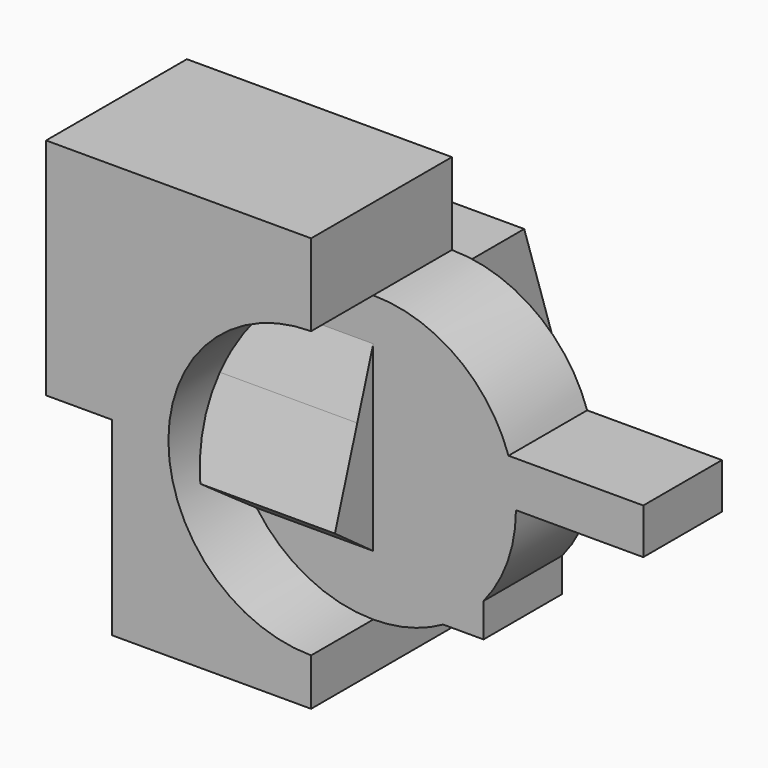
from build123d import *

# Parameters (mm, degrees)
F1_DEPTH = 45.466
F2_DEPTH = 25.4
F4_DEPTH = 46.736


with BuildPart() as f1:
    # F0 (on Front) → F1 (new body)
    with BuildSketch(Plane.XZ):
        with BuildLine():
            ThreePointArc((-36.8620457054, 0), (-26.0654024867, 26.0654024867), (0, 36.8620457054))
            Line((0, 36.8620457054), (0, 57.9813979566))
            Line((0, 57.9813979566), (-68.4616416693, 57.9813979566))
            Line((-68.4616416693, 57.9813979566), (-68.4616416693, 0))
            Line((-68.4616416693, 0), (-51.4429248869, 0))
            Line((-51.4429248869, 0), (-36.8620457054, 0))
        make_face()
        with BuildLine():
            ThreePointArc((0, -36.8620457054), (-26.0654024867, -26.0654024867), (-36.8620457054, 0))
            Line((-36.8620457054, 0), (-51.4429248869, 0))
            Line((-51.4429248869, 0), (-51.4429248869, -49.0166470408))
            Line((-51.4429248869, -49.0166470408), (0, -49.0166470408))
            Line((0, -49.0166470408), (0, -36.8620457054))
        make_face()
    extrude(amount=F1_DEPTH)

    # F0 (on Front) → F2 (join)
    with BuildSketch(Plane.XZ):
        with BuildLine():
            Line((28.4934528172, 0), (36.8620457054, 0))
            ThreePointArc((36.8620457054, 0), (36.3777391302, 5.9557123304), (34.9375453863, 11.7549281567))
            Line((34.9375453863, 11.7549281567), (0, 11.7549281567))
            Line((0, 11.7549281567), (0, 0))
            Line((0, 0), (28.4934528172, 0))
        make_face()
        with BuildLine():
            ThreePointArc((28.4934528172, -23.3866107023), (34.7068968192, -12.4194092761), (36.8620457054, 0))
            Line((36.8620457054, 0), (28.4934528172, 0))
            Line((28.4934528172, 0), (28.4934528172, -23.3866107023))
        make_face()
        with BuildLine():
            ThreePointArc((34.9375453863, 11.7549281567), (36.3777391302, 5.9557123304), (36.8620457054, 0))
            Line((36.8620457054, 0), (69.7509273887, 0))
            Line((69.7509273887, 0), (69.7509273887, 11.7549281567))
            Line((69.7509273887, 11.7549281567), (34.9375453863, 11.7549281567))
        make_face()
        with BuildLine():
            Line((0, 11.7549281567), (34.9375453863, 11.7549281567))
            ThreePointArc((34.9375453863, 11.7549281567), (21.5116214476, 29.9342705988), (0, 36.8620457054))
            Line((0, 36.8620457054), (0, 11.7549281567))
        make_face()
        with BuildLine():
            Line((28.4934528172, -32.1296229959), (28.4934528172, -23.3866107023))
            ThreePointArc((28.4934528172, -23.3866107023), (23.6882112756, -28.2432126387), (18.0692484551, -32.1296229959))
            Line((18.0692484551, -32.1296229959), (28.4934528172, -32.1296229959))
        make_face()
        with BuildLine():
            ThreePointArc((18.0692484551, -32.1296229959), (23.6882112756, -28.2432126387), (28.4934528172, -23.3866107023))
            Line((28.4934528172, -23.3866107023), (28.4934528172, 0))
            Line((28.4934528172, 0), (0, 0))
            Line((0, 0), (0, -32.1296229959))
            Line((0, -32.1296229959), (18.0692484551, -32.1296229959))
        make_face()
        with BuildLine():
            Line((0, 11.7549281567), (0, 36.8620457054))
            ThreePointArc((0, 36.8620457054), (-26.0654024867, 26.0654024867), (-36.8620457054, 0))
            Line((-36.8620457054, 0), (0, 0))
            Line((0, 0), (0, 11.7549281567))
        make_face()
        with BuildLine():
            ThreePointArc((-36.8620457054, 0), (-26.0654024867, 26.0654024867), (0, 36.8620457054))
            Line((0, 36.8620457054), (0, 57.9813979566))
            Line((0, 57.9813979566), (-68.4616416693, 57.9813979566))
            Line((-68.4616416693, 57.9813979566), (-68.4616416693, 0))
            Line((-68.4616416693, 0), (-51.4429248869, 0))
            Line((-51.4429248869, 0), (-36.8620457054, 0))
        make_face()
        with BuildLine():
            ThreePointArc((0, -36.8620457054), (9.3393463962, -35.6593188729), (18.0692484551, -32.1296229959))
            Line((18.0692484551, -32.1296229959), (0, -32.1296229959))
            Line((0, -32.1296229959), (0, -36.8620457054))
        make_face()
        with BuildLine():
            Line((0, -32.1296229959), (0, 0))
            Line((0, 0), (-36.8620457054, 0))
            ThreePointArc((-36.8620457054, 0), (-26.0654024867, -26.0654024867), (0, -36.8620457054))
            Line((0, -36.8620457054), (0, -32.1296229959))
        make_face()
        with BuildLine():
            ThreePointArc((0, -36.8620457054), (-26.0654024867, -26.0654024867), (-36.8620457054, 0))
            Line((-36.8620457054, 0), (-51.4429248869, 0))
            Line((-51.4429248869, 0), (-51.4429248869, -49.0166470408))
            Line((-51.4429248869, -49.0166470408), (0, -49.0166470408))
            Line((0, -49.0166470408), (0, -36.8620457054))
        make_face()
    extrude(amount=F2_DEPTH)

    # F3 (on Right) → F4 (join)
    with BuildSketch(Plane.YZ):
        with BuildLine():
            ThreePointArc((18.8913277671, -26.0016833187), (28.6368136719, -14.5911857958), (32.1398475449, 0))
            ThreePointArc((32.1398475449, 0), (31.7441526763, 5.0277799349), (30.5668113916, 9.9317592377))
            ThreePointArc((30.5668113916, 9.9317592377), (18.8913283341, 26.0016829067), (0, 32.1398475449))
            ThreePointArc((0, 32.1398475449), (-18.8913281553, 26.0016830366), (-30.566811255, 9.9317596581))
            ThreePointArc((-30.566811255, 9.9317596581), (-30.5668114341, -9.9317591071), (-18.8913278804, -26.0016832363))
            ThreePointArc((-18.8913278804, -26.0016832363), (-7e-08, -32.1398475449), (18.8913277671, -26.0016833187))
        make_face()
        with BuildLine():
            ThreePointArc((30.5668113916, 9.9317592377), (31.7441526763, 5.0277799349), (32.1398475449, 0))
            ThreePointArc((32.1398475449, 0), (28.6368136719, -14.5911857958), (18.8913277671, -26.0016833187))
            Line((18.8913277671, -26.0016833187), (37.7826567956, -12.2763293689))
            Line((37.7826567956, -12.2763293689), (30.5668113916, 9.9317592377))
        make_face()
        with BuildLine():
            ThreePointArc((0, 32.1398475449), (18.8913283341, 26.0016829067), (30.5668113916, 9.9317592377))
            Line((30.5668113916, 9.9317592377), (23.350966085, 32.1398475449))
            Line((23.350966085, 32.1398475449), (0, 32.1398475449))
        make_face()
        with BuildLine():
            Line((0, -39.7270363519), (18.8913277671, -26.0016833187))
            ThreePointArc((18.8913277671, -26.0016833187), (-7e-08, -32.1398475449), (-18.8913278804, -26.0016832363))
            Line((-18.8913278804, -26.0016832363), (0, -39.7270363519))
        make_face()
        with BuildLine():
            ThreePointArc((-30.566811255, 9.9317596581), (-18.8913281553, 26.0016830366), (0, 32.1398475449))
            Line((0, 32.1398475449), (-23.350966085, 32.1398475449))
            Line((-23.350966085, 32.1398475449), (-30.566811255, 9.9317596581))
        make_face()
        with BuildLine():
            Line((-37.7826567956, -12.2763293689), (-18.8913278804, -26.0016832363))
            ThreePointArc((-18.8913278804, -26.0016832363), (-30.5668114341, -9.9317591071), (-30.566811255, 9.9317596581))
            Line((-30.566811255, 9.9317596581), (-37.7826567956, -12.2763293689))
        make_face()
    extrude(amount=-F4_DEPTH)


solid = f1.part
